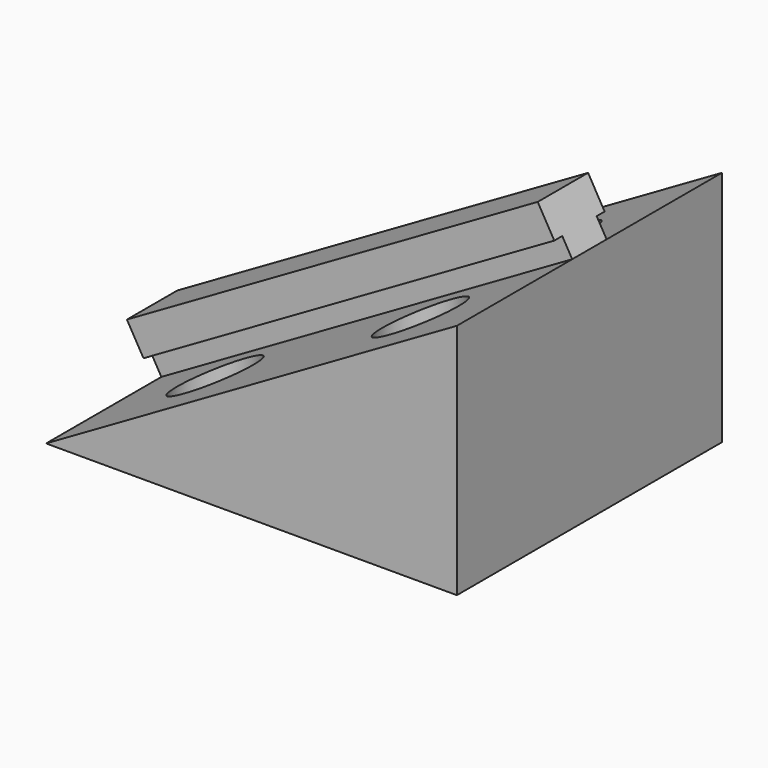
from build123d import *

# Parameters (mm, degrees)
F1_DEPTH = 25.4
F2_R     = 2.921
F2_R_2   = 1.778
F3_DEPTH = 25.4
F4_DEPTH = 1.27
F5_W     = 36.3684481568
F5_H     = 3.302
F6_DEPTH = 1.524
F8_DEPTH = 2.54


with BuildPart() as f1:
    # F0 (on Front) → F1 (new body)
    with BuildSketch(Plane.XZ):
        Polygon((16.5742833321, 18.1842240784), (-14.9217166679, 0), (16.5742833321, 0), align=None)
    extrude(amount=F1_DEPTH)

    # F2 (on face) → F3 (cut)
    with BuildSketch(Plane(origin=(0, 0, 0), x_dir=(1, 0, 0), z_dir=(0, 0, -1))):
        with Locations((-7.0477166679, 19.05)):
            Circle(F2_R)
        with Locations((-7.0477166679, 19.05)):
            Circle(F2_R_2, mode=Mode.SUBTRACT)
        with Locations((8.7002833321, 19.05)):
            Circle(F2_R)
        with Locations((8.7002833321, 19.05)):
            Circle(F2_R_2, mode=Mode.SUBTRACT)
        with Locations((-7.0477166679, 6.35)):
            Circle(F2_R)
        with Locations((-7.0477166679, 6.35)):
            Circle(F2_R_2, mode=Mode.SUBTRACT)
        with Locations((8.7002833321, 6.35)):
            Circle(F2_R)
        with Locations((8.7002833321, 6.35)):
            Circle(F2_R_2, mode=Mode.SUBTRACT)
        with Locations((-7.0477166679, 19.05)):
            Circle(F2_R_2)
        with Locations((8.7002833321, 19.05)):
            Circle(F2_R_2)
        with Locations((-7.0477166679, 6.35)):
            Circle(F2_R_2)
        with Locations((8.7002833321, 6.35)):
            Circle(F2_R_2)
    extrude(amount=-F3_DEPTH, mode=Mode.SUBTRACT)

    # F2 (on face) → F4 (join)
    with BuildSketch(Plane(origin=(0, 0, 0), x_dir=(1, 0, 0), z_dir=(0, 0, -1))):
        with Locations((-7.0477166679, 19.05)):
            Circle(F2_R)
        with Locations((-7.0477166679, 19.05)):
            Circle(F2_R_2, mode=Mode.SUBTRACT)
        with Locations((8.7002833321, 19.05)):
            Circle(F2_R)
        with Locations((8.7002833321, 19.05)):
            Circle(F2_R_2, mode=Mode.SUBTRACT)
        with Locations((-7.0477166679, 6.35)):
            Circle(F2_R)
        with Locations((-7.0477166679, 6.35)):
            Circle(F2_R_2, mode=Mode.SUBTRACT)
        with Locations((8.7002833321, 6.35)):
            Circle(F2_R)
        with Locations((8.7002833321, 6.35)):
            Circle(F2_R_2, mode=Mode.SUBTRACT)
    extrude(amount=-F4_DEPTH)

    # F5 (on face) → F6 (join)
    with BuildSketch(Plane(origin=(-3.730429167, 0, 6.4612928512), x_dir=(0.8660254038, 0, 0.5), z_dir=(-0.5, 0, 0.8660254038))):
        with Locations((5.2616383759, -12.7)):
            Rectangle(F5_W, F5_H)
    extrude(amount=F6_DEPTH)

    # F7 (on face) → F8 (join)
    with BuildSketch(Plane(origin=(-4.492429167, 0, 7.7811155666), x_dir=(0.8660254038, 0, 0.5), z_dir=(-0.5, 0, 0.8660254038))):
        Polygon((-12.9225857025, -10.287), (-12.9225857025, -12.7), (-12.9225857025, -15.113), (23.4458624543, -15.113), (23.4458624543, -12.7), (23.4458624543, -10.287), align=None)
    extrude(amount=F8_DEPTH)


solid = f1.part
